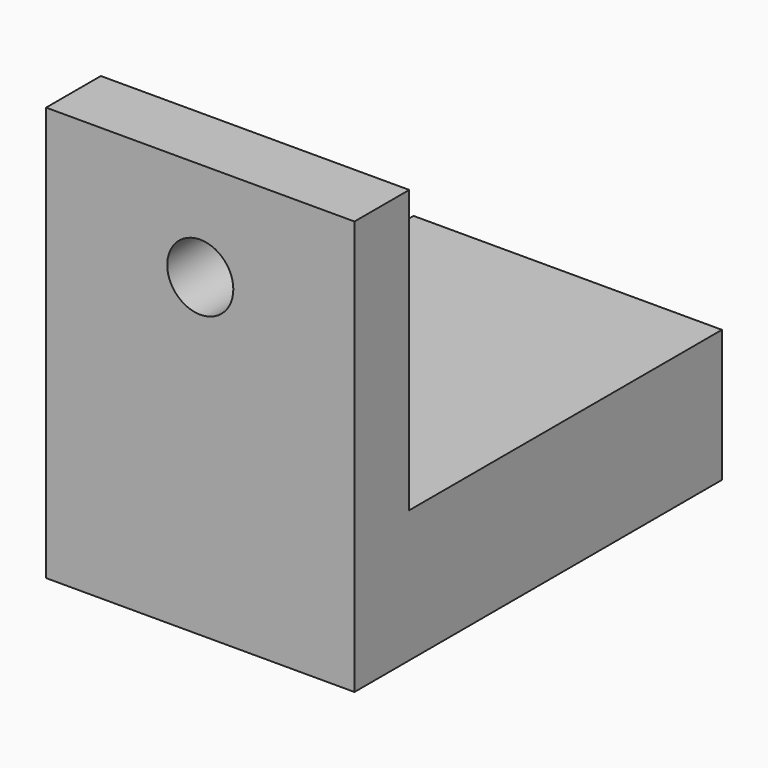
from build123d import *

# Parameters (mm, degrees)
F0_W     = 88.720875
F0_H     = 30
F1_DEPTH = 70
F2_R     = 7.5
F3_DEPTH = 25


with BuildPart() as f1:
    # F0 (on Right) → F1 (new body)
    with BuildSketch(Plane.YZ):
        with Locations((59.895014, 15)):
            Rectangle(F0_W, F0_H)
        Polygon((0, 94.020176), (0, 0), (15.534577, 0), (15.534577, 30), (15.534577, 94.020176), align=None)
    extrude(amount=F1_DEPTH)

    # F2 (on face) → F3 (cut)
    with BuildSketch(Plane.XZ):
        with Locations((35, 71.520176)):
            Circle(F2_R)
    extrude(amount=-F3_DEPTH, mode=Mode.SUBTRACT)


solid = f1.part
